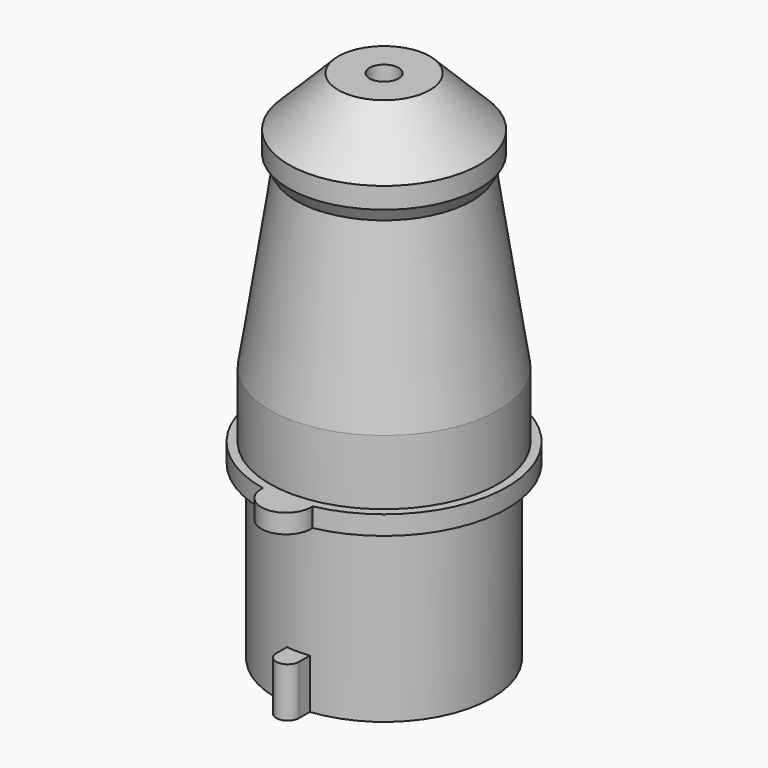
from build123d import *

# Parameters (mm, degrees)
F1_DEPTH  = 5
F2_R      = 28.25
F2_R_2    = 25.75
F3_DEPTH  = 50
F5_DEPTH  = 13
F6_R      = 4
F6_R_2    = 3
F7_DEPTH  = 44
F10_R     = 3.8
F11_DEPTH = 25


with BuildPart() as f1:
    # F0 (on Top) → F1 (new body)
    with BuildSketch(Plane.XY):
        with BuildLine():
            Line((6.5, -32.08817), (6.5, -31.58817))
            ThreePointArc((6.5, -31.58817), (0, 32.25), (-6.5, -31.58817))
            Line((-6.5, -31.58817), (-6.5, -32.08817))
            ThreePointArc((-6.5, -32.08817), (0, -38.58817), (6.5, -32.08817))
        make_face()
    extrude(amount=-F1_DEPTH)

    # F2 (on face) → F3 (join)
    with BuildSketch(Plane.XY):
        Circle(F2_R)
        Circle(F2_R_2, mode=Mode.SUBTRACT)
    extrude(amount=-F3_DEPTH)

    # F4 (on face) → F5 (join)
    with BuildSketch(Plane(origin=(0, 0, -50), x_dir=(1, 0, 0), z_dir=(0, 0, -1))):
        with BuildLine():
            Line((-3, 31.590256), (-3, 28.090256))
            ThreePointArc((-3, 28.090256), (0, 28.25), (3, 28.090256))
            Line((3, 28.090256), (3, 31.590256))
            ThreePointArc((3, 31.590256), (0, 34.590256), (-3, 31.590256))
        make_face()
    extrude(amount=-F5_DEPTH)


with BuildPart() as f7:
    # F6 (on face) → F7 (new body)
    with BuildSketch(Plane.XY):
        with Locations((0, -11)):
            Circle(F6_R)
        with Locations((9.526279, 5.5)):
            Circle(F6_R_2)
        with Locations((-9.526279, 5.5)):
            Circle(F6_R_2)
    extrude(amount=-F7_DEPTH)


with BuildPart() as f9:
    # F8 (on Right) → F9 (revolve)
    with BuildSketch(Plane.YZ):
        Polygon((-30, 0), (0, 0), (0, 85), (-12, 85), (-25, 72), (-25, 66.5), (-23, 63), (-30, 17), align=None)
    revolve(axis=Axis((0, 0, 72.046123), (0, 0, 1)))

    # F10 (on face) → F11 (cut)
    with BuildSketch(Plane.XY.offset(85)):
        Circle(F10_R)
    extrude(amount=-F11_DEPTH, mode=Mode.SUBTRACT)


solid = Compound([f1.part, f7.part, f9.part])
